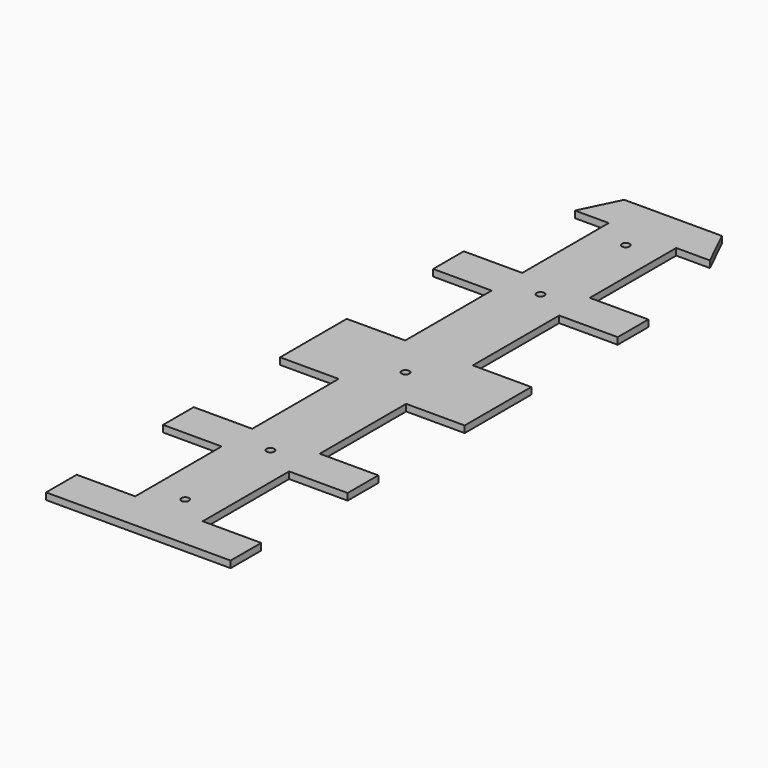
from build123d import *

# Parameters (mm, degrees)
PAD_DEPTH         = 3
SKETCH001_R       = 1.7
POCKET_DEPTH      = 0.001
POCKET_DEPTH_BACK = 3.001


with BuildPart() as part:
    # Sketch → Pad (new body)
    with BuildSketch(Plane.XY):
        Polygon((0, 33), (41, 33), (41, 50), (15, 50), (15, 98), (41, 98), (41, 115), (15, 115), (15, 163), (41, 163), (41, 200), (15, 200), (15, 248), (41, 248), (41, 265), (15, 265), (15, 313), (30, 313), (21.708546, 330), (0, 330), align=None)
    pad = extrude(amount=PAD_DEPTH)

    # Mirrored: Pad across Sketch V_Axis
    add(pad.mirror(Plane(origin=(0, 0, 0), x_dir=(0, 0, 1), z_dir=(1, 0, 0))))

    # Sketch001 → Pocket (cut, two sides)
    with BuildSketch(Plane.XY) as pocket_sk:
        with Locations((0, 59)):
            Circle(SKETCH001_R)
        with Locations((0, 106.3905)):
            Circle(SKETCH001_R)
        with Locations((0, 181.3905)):
            Circle(SKETCH001_R)
        with Locations((0, 256.3905)):
            Circle(SKETCH001_R)
        with Locations((0, 303.7447)):
            Circle(SKETCH001_R)
    extrude(amount=-POCKET_DEPTH, mode=Mode.SUBTRACT)
    extrude(pocket_sk.sketch, amount=POCKET_DEPTH_BACK, mode=Mode.SUBTRACT)


solid = part.part
